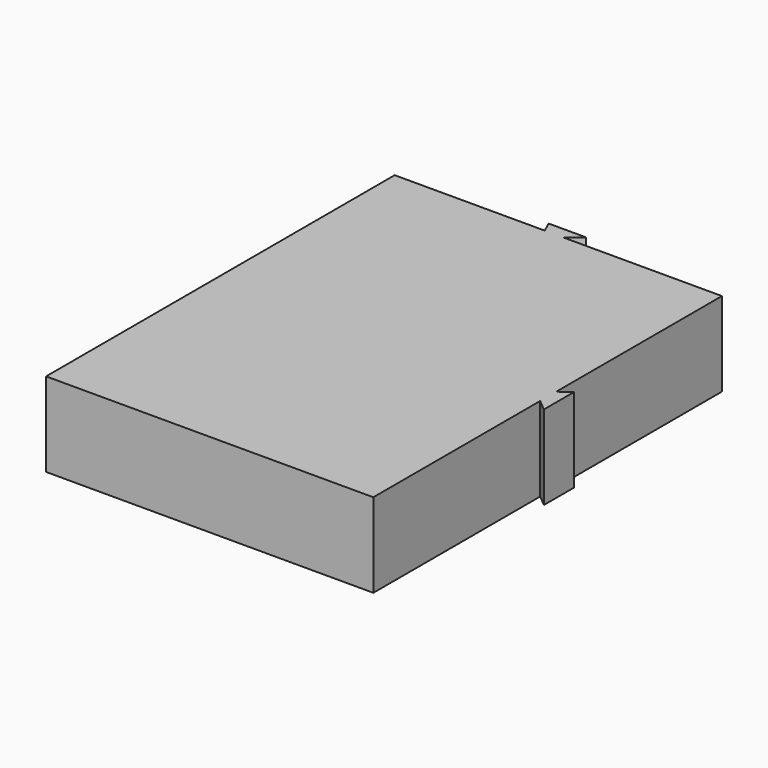
from build123d import *

# Parameters (mm, degrees)
F0_W      = 50
F0_H      = 30
F1_DEPTH  = 25
F3_DEPTH  = 50
F5_R      = 5
F6_T      = -2.5
F7_R      = 10.7930870798
F8_DEPTH  = 25
F10_DEPTH = 9
F11_W     = 42
F11_H     = 73.1670876886
F12_DEPTH = 22.5


with BuildPart() as f1:
    # F0 (on Top) → F1 (new body)
    with BuildSketch(Plane.XY):
        Rectangle(F0_W, F0_H)
    extrude(amount=F1_DEPTH)


with BuildPart() as f3:
    # F2 (on face) → F3 (new body, through all)
    with BuildSketch(Plane.YZ.offset(25)):
        Polygon((-15, 0), (-15, 25), (-33.741876483, 0), align=None)
    extrude(amount=-F3_DEPTH)


with BuildPart() as f1_1:
    add(f1.part)

    # F4: union F3
    add(f3.part)

    # F5
    f5_edges = [f1_1.edges().sort_by_distance(p)[0] for p in [
        (25, -24.370938, 12.5),
        (-25, -24.370938, 12.5),
        (0, -15, 25),
        (25, 0, 25),
        (-25, 0, 25),
    ]]
    fillet(f5_edges, radius=F5_R)

    # F6
    f6_openings = [f1_1.faces().sort_by_distance(p)[0] for p in [
        (0, -9.243814, 0),
    ]]
    offset(amount=F6_T, openings=f6_openings)

    # F7 (on face) → F8 (cut)
    with BuildSketch(Plane(origin=(0, -21.6015379391, 16.1941342359), x_dir=(1, 0, 0), z_dir=(0, -0.8001247794, 0.5998335914))):
        with Locations((0, -5.4950344037)):
            Circle(F7_R)
    extrude(amount=-F8_DEPTH, mode=Mode.SUBTRACT)


with BuildPart() as f10:
    # F9 (on Top) → F10 (new body)
    with BuildSketch(Plane.XY):
        Polygon((-17.5, 68.6), (-17.5, 22), (17.5, 22), (17.5, 44.3), (17.5, 46.4536678502), (17.5, 68.6), (0.5493581668, 68.6), (-1.4506418332, 68.6), align=None)
        Polygon((17.5, 46.4536678502), (17.5, 44.3), (18.7, 43.3), (18.7, 47.3), align=None)
        Polygon((-2, 69.8), (-1.4506418332, 68.6), (0.5493581668, 68.6), (2, 69.8), align=None)
    extrude(amount=F10_DEPTH)


with BuildPart() as f12:
    # F11 (on Top) → F12 (new body, through all)
    with BuildSketch(Plane.XY):
        with Locations((0, 36.5835438443)):
            Rectangle(F11_W, F11_H)
    extrude(amount=F12_DEPTH)


with BuildPart() as f1_2:
    add(f1_1.part)

    # F13: cut F12
    add(f12.part, mode=Mode.SUBTRACT)


with BuildPart() as f14_1:
    # F14: copy of F1
    add(f1_2.part)


solid = f10.part
